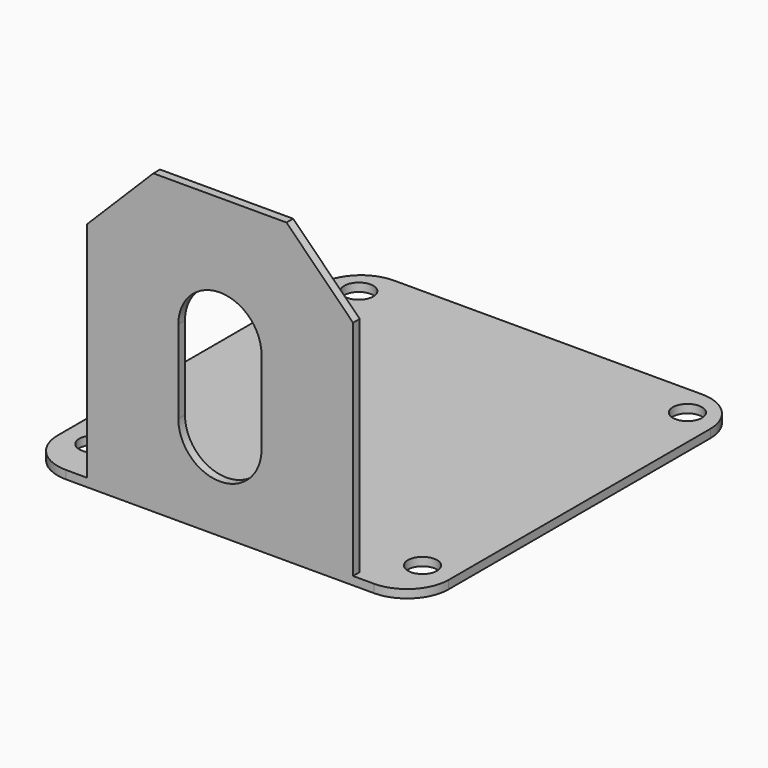
from build123d import *

# Parameters (mm, degrees)
F1_DEPTH      = 16
F1_DEPTH_BACK = 16
F2_W          = 49.3
F2_H          = 1
F3_DEPTH      = 23.5
F3_DEPTH_BACK = 23.5
F5_SIZE       = 8
F6_DEPTH      = 5
F7_R          = 5
F8_R          = 1.75
F9_DEPTH      = 25


with BuildPart() as f1:
    # F0 (on Right) → F1 (new body, two sides)
    with BuildSketch(Plane.YZ) as f1_sk:
        Polygon((0, 20), (-1, 20), (-1, -15.8), (0, -14.8), align=None)
    extrude(amount=F1_DEPTH)
    extrude(f1_sk.sketch, amount=-F1_DEPTH_BACK)

    # F2 (on Right) → F3 (join, two sides)
    with BuildSketch(Plane.YZ) as f3_sk:
        with Locations((23.65, -15.3)):
            Rectangle(F2_W, F2_H)
    extrude(amount=F3_DEPTH)
    extrude(f3_sk.sketch, amount=-F3_DEPTH_BACK)

    # F5
    f5_edges = [f1.edges().sort_by_distance(p)[0] for p in [
        (-16, -0.5, 20),
        (16, -0.5, 20),
    ]]
    chamfer(f5_edges, length=F5_SIZE)

    # F4 (on Front) → F6 (cut)
    with BuildSketch(Plane.XZ):
        with BuildLine():
            Line((5, -5), (5, 5))
            ThreePointArc((5, 5), (0, 10), (-5, 5))
            Line((-5, 5), (-5, -5))
            ThreePointArc((-5, -5), (0, -10), (5, -5))
        make_face()
    extrude(amount=F6_DEPTH, mode=Mode.SUBTRACT)

    # F7
    f7_edges = [f1.edges().sort_by_distance(p)[0] for p in [
        (23.5, 48.3, -15.3),
        (-23.5, 48.3, -15.3),
        (23.5, -1, -15.3),
        (-23.5, -1, -15.3),
    ]]
    fillet(f7_edges, radius=F7_R)

    # F8 (on face) → F9 (cut)
    with BuildSketch(Plane.XY.offset(-14.8)):
        with Locations((-19.75, 44.55)):
            Circle(F8_R)
        with Locations((-19.75, 4.75)):
            Circle(F8_R)
        with Locations((19.75, 4.75)):
            Circle(F8_R)
        with Locations((19.75, 44.55)):
            Circle(F8_R)
    extrude(amount=-F9_DEPTH, mode=Mode.SUBTRACT)


solid = f1.part
